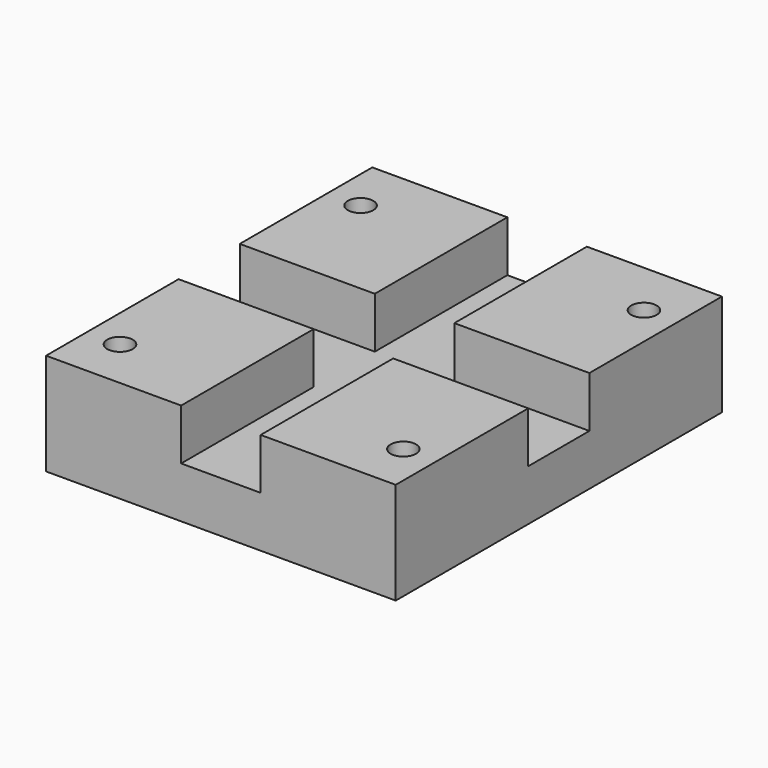
from build123d import *

# Parameters (mm, degrees)
F0_W     = 87.122
F0_H     = 101.6
F1_DEPTH = 12.7
F2_W     = 33.655
F2_H     = 41.275
F3_DEPTH = 12.7
F4_R     = 3.175
F5_DEPTH = 25.4


with BuildPart() as f1:
    # F0 (on Top) → F1 (new body)
    with BuildSketch(Plane.XY):
        with Locations((43.561, 50.8)):
            Rectangle(F0_W, F0_H)
    extrude(amount=F1_DEPTH)

    # F2 (on face) → F3 (join)
    with BuildSketch(Plane.XY.offset(12.7)):
        with Locations((16.8275, 80.9625)):
            Rectangle(F2_W, F2_H)
        with Locations((70.2945, 80.9625)):
            Rectangle(F2_W, F2_H)
        Polygon((53.467, 0), (87.122, 0), (87.122, 41.275), (77.888655, 41.275), (73.54703, 41.275), (53.467, 41.275), align=None)
        with Locations((16.8275, 20.6375)):
            Rectangle(F2_W, F2_H)
    extrude(amount=F3_DEPTH)

    # F4 (on face) → F5 (cut)
    with BuildSketch(Plane.XY.offset(25.4)):
        with Locations((78.867, 87.63)):
            Circle(F4_R)
        with Locations((8.255, 87.63)):
            Circle(F4_R)
        with Locations((78.867, 12.7)):
            Circle(F4_R)
        with Locations((8.255, 12.7)):
            Circle(F4_R)
    extrude(amount=-F5_DEPTH, mode=Mode.SUBTRACT)


solid = f1.part
